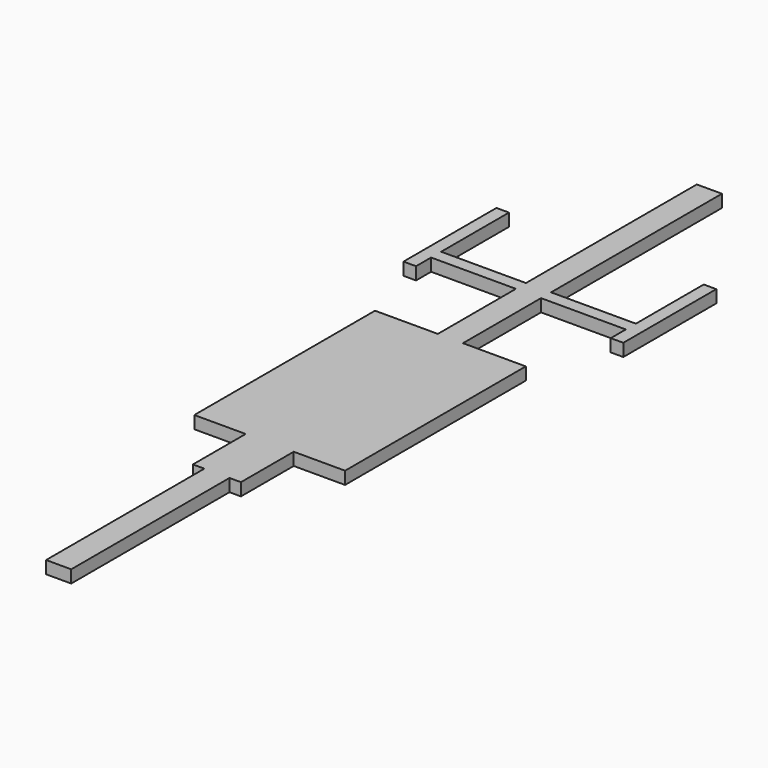
from build123d import *

# Parameters (mm, degrees)
F0_W     = 50.8
F0_H     = 400.05
F0_W_2   = 23.167712307
F0_H_2   = 133.35
F0_H_3   = 88.3720067978
F0_H_4   = 368.3754058838
F0_H_5   = 197.3025873184
F0_H_6   = 25.4
F0_H_7   = 431.8
F1_DEPTH = 25.4


with BuildPart() as f1:
    # F0 (on Top) → F1 (new body)
    with BuildSketch(Plane.XY):
        with Locations((0, 200.025)):
            Rectangle(F0_W, F0_H)
        with Locations((-36.9838561535, 466.725)):
            Rectangle(F0_W_2, F0_H_2)
        with Locations((0, 466.725)):
            Rectangle(F0_W, F0_H_2)
        with Locations((36.9838561535, 466.725)):
            Rectangle(F0_W_2, F0_H_2)
        with Locations((-36.9838561535, 577.5860033989)):
            Rectangle(F0_W_2, F0_H_3)
        with Locations((36.9838561535, 577.5860033989)):
            Rectangle(F0_W_2, F0_H_3)
        Polygon((-48.567712307, 621.7720067978), (-25.4, 621.7720067978), (-25.4, 990.1474126816), (-152.4, 990.1474126816), (-152.4, 533.4), (-48.567712307, 533.4), align=None)
        with Locations((0, 805.9597097397)):
            Rectangle(F0_W, F0_H_4)
        Polygon((25.4, 990.1474126816), (25.4, 621.7720067978), (48.567712307, 621.7720067978), (48.567712307, 533.4), (152.4, 533.4), (152.4, 990.1474126816), align=None)
        with Locations((0, 1088.7987063408)):
            Rectangle(F0_W, F0_H_5)
        Polygon((-196.85, 1187.45), (-25.4, 1187.45), (-25.4, 1212.85), (-196.85, 1212.85), (-196.85, 1384.3), (-222.25, 1384.3), (-222.25, 1149.35), (-196.85, 1149.35), align=None)
        with Locations((0, 1200.15)):
            Rectangle(F0_W, F0_H_6)
        Polygon((25.4, 1212.85), (25.4, 1187.45), (196.85, 1187.45), (196.85, 1149.35), (222.25, 1149.35), (222.25, 1384.3), (196.85, 1384.3), (196.85, 1212.85), align=None)
        with Locations((0, 1428.75)):
            Rectangle(F0_W, F0_H_7)
        with Locations((0, 577.5860033989)):
            Rectangle(F0_W, F0_H_3)
    extrude(amount=F1_DEPTH)


solid = f1.part
